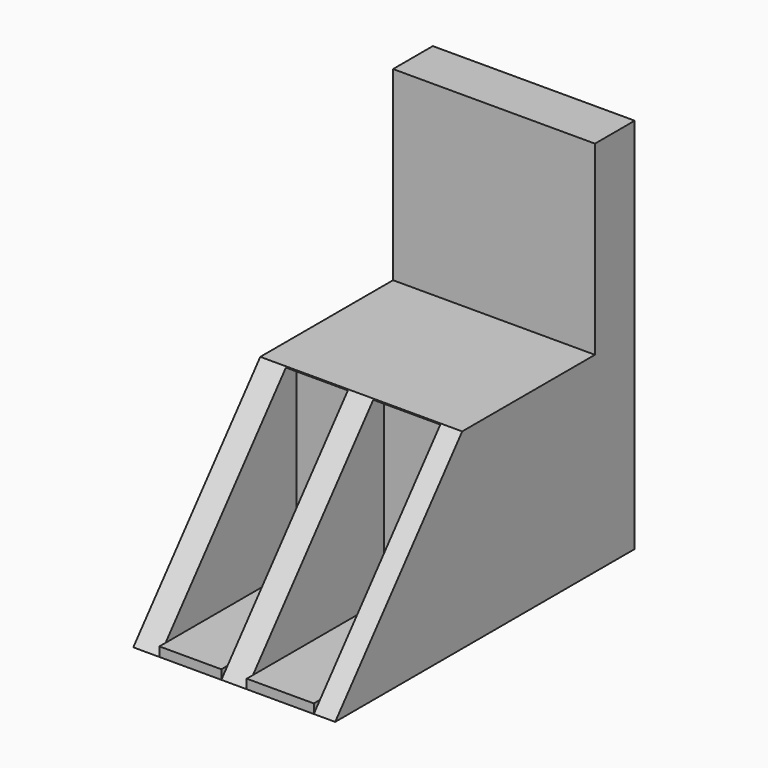
from build123d import *

# Parameters (mm, degrees)
F1_DEPTH = 82.55
F2_W     = 82.55
F2_H     = 154.17393
F3_DEPTH = 20.32
F4_W     = 25.331251
F4_H     = 78.070102
F4_W_2   = 27.407586
F4_H_2   = 78.070093
F5_DEPTH = 76.2
F6_W     = 25.331251
F6_H     = 70.189761
F6_W_2   = 27.407586
F7_DEPTH = 3.81


with BuildPart() as f1:
    # F0 (on Right) → F1 (new body)
    with BuildSketch(Plane.YZ):
        Polygon((-5.292215, 52.064744), (-70.189761, -26.107301), (62.555218, -26.107301), (62.555218, 52.064744), align=None)
    extrude(amount=-F1_DEPTH)

    # F2 (on face) → F3 (join)
    with BuildSketch(Plane(origin=(0, 62.555218, 0), x_dir=(-1, 0, 0), z_dir=(0, 1, 0))):
        with Locations((41.275, 50.979664)):
            Rectangle(F2_W, F2_H)
    extrude(amount=F3_DEPTH)

    # F4 (on Front) → F5 (cut)
    with BuildSketch(Plane.XZ):
        with Locations((-59.212166, 12.739294)):
            Rectangle(F4_W, F4_H)
        with Locations((-22.461083, 12.739295)):
            Rectangle(F4_W_2, F4_H_2)
    extrude(amount=F5_DEPTH, mode=Mode.SUBTRACT)

    # F6 (on face) → F7 (join)
    with BuildSketch(Plane(origin=(0, 0, -26.107301), x_dir=(1, 0, 0), z_dir=(0, 0, -1))):
        with Locations((-59.212166, 35.09488)):
            Rectangle(F6_W, F6_H)
        with Locations((-22.461083, 35.09488)):
            Rectangle(F6_W_2, F6_H)
    extrude(amount=-F7_DEPTH)


solid = f1.part
